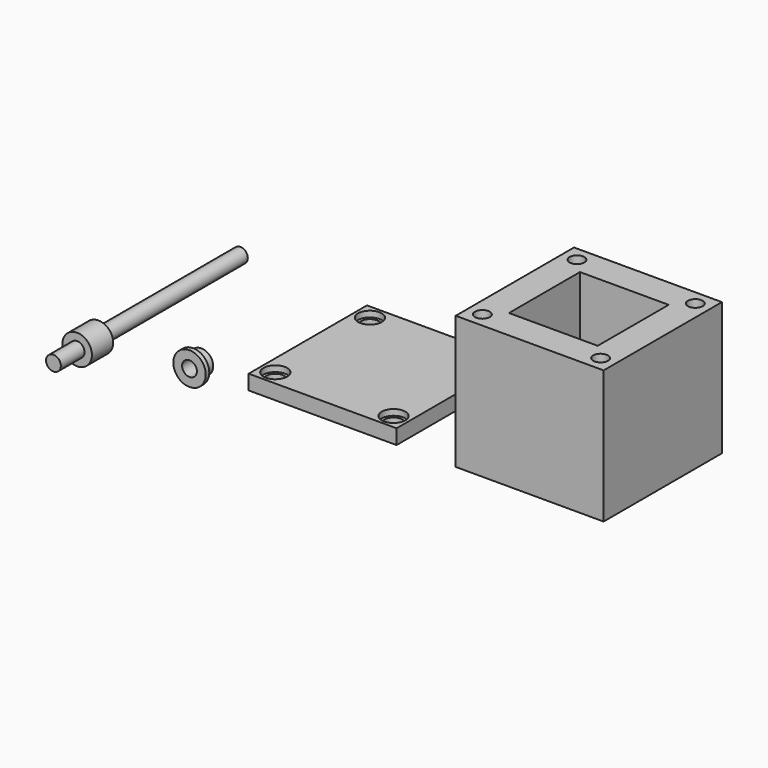
from build123d import *

# Parameters (mm, degrees)
F0_W      = 50
F0_H      = 50
F1_DEPTH  = 45
F2_W      = 30
F2_H      = 30
F3_DEPTH  = 39
F4_R      = 2.5
F5_DEPTH  = 10
F6_R      = 4
F7_DEPTH  = 25
F8_W      = 50
F8_H      = 50
F9_DEPTH  = 5
F10_R     = 3
F11_DEPTH = 25
F12_R     = 4
F13_DEPTH = 2


with BuildPart() as f1:
    # F0 (on Top) → F1 (new body)
    with BuildSketch(Plane.XY):
        with Locations((25, 25)):
            Rectangle(F0_W, F0_H)
    extrude(amount=F1_DEPTH)

    # F2 (on face) → F3 (cut)
    with BuildSketch(Plane.XY.offset(45)):
        with Locations((25, 25)):
            Rectangle(F2_W, F2_H)
    extrude(amount=-F3_DEPTH, mode=Mode.SUBTRACT)

    # F4 (on face) → F5 (cut)
    with BuildSketch(Plane.XY.offset(45)):
        with Locations((5, 45)):
            Circle(F4_R)
        with Locations((5, 5)):
            Circle(F4_R)
        with Locations((45, 45)):
            Circle(F4_R)
        with Locations((45, 5)):
            Circle(F4_R)
    extrude(amount=-F5_DEPTH, mode=Mode.SUBTRACT)

    # F6 (on face) → F7 (cut)
    with BuildSketch(Plane.XY.offset(6)):
        with Locations((25, 25)):
            Circle(F6_R)
    extrude(amount=-F7_DEPTH, mode=Mode.SUBTRACT)


with BuildPart() as f9:
    # F8 (on Top) → F9 (new body)
    with BuildSketch(Plane.XY):
        with Locations((-45, 25)):
            Rectangle(F8_W, F8_H)
    extrude(amount=F9_DEPTH)

    # F10 (on face) → F11 (cut)
    with BuildSketch(Plane.XY.offset(5)):
        with Locations((-65, 45)):
            Circle(F10_R)
        with Locations((-25, 45)):
            Circle(F10_R)
        with Locations((-25, 5)):
            Circle(F10_R)
        with Locations((-65, 5)):
            Circle(F10_R)
    extrude(amount=-F11_DEPTH, mode=Mode.SUBTRACT)

    # F12 (on face) → F13 (cut)
    with BuildSketch(Plane.XY.offset(5)):
        with Locations((-65, 45)):
            Circle(F12_R)
        with Locations((-65, 5)):
            Circle(F12_R)
        with Locations((-25, 5)):
            Circle(F12_R)
        with Locations((-25, 45)):
            Circle(F12_R)
    extrude(amount=-F13_DEPTH, mode=Mode.SUBTRACT)


with BuildPart() as f15:
    # F14 (on Top) → F15 (revolve)
    with BuildSketch(Plane.XY):
        Polygon((-87.5, 5), (-87.5, 0), (-84.52, 0), (-84.52, 1.5), (-86, 1.5), (-86, 5), align=None)
    revolve(axis=Axis((-90, 5, 0), (0, 1, 0)))


with BuildPart() as f17:
    # F16 (on Top) → F17 (revolve)
    with BuildSketch(Plane.XY):
        Polygon((-120, 59), (-120, -20), (-117.5, -20), (-117.5, -10), (-115, -10), (-115, -1), (-117.5, -1), (-117.5, 59), align=None)
    revolve(axis=Axis((-120, 24.713512, 0), (0, 1, 0)))


solid = Compound([f1.part, f9.part, f15.part, f17.part])
